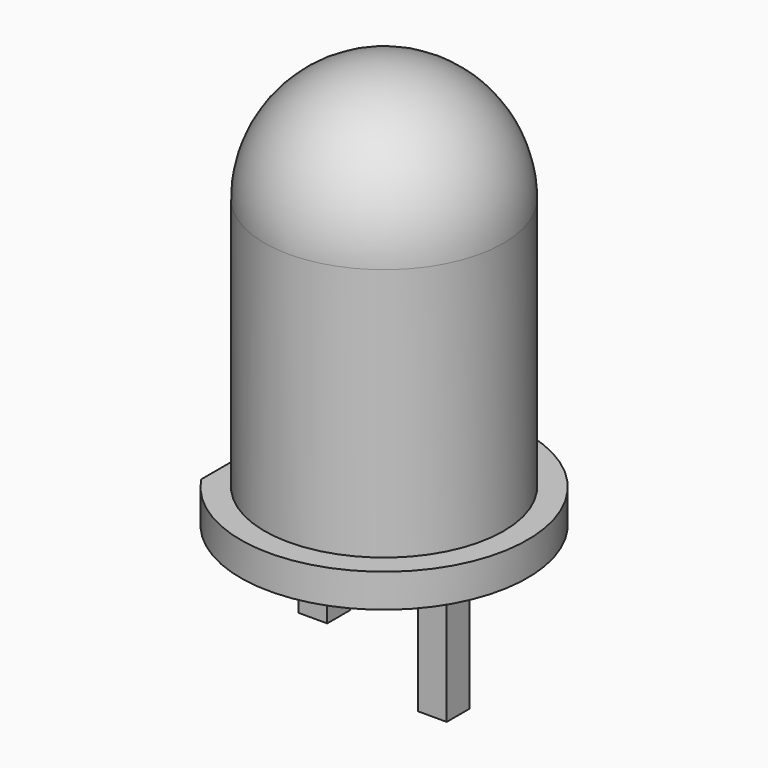
from build123d import *

# Parameters (mm, degrees)
F0_R      = 2.5
F1_DEPTH  = 6
F5_DEPTH  = 0.7
F6_W      = 0.6
F6_H      = 0.6
F7_DEPTH  = 2
F7_FACE_W = 0.6
F7_FACE_H = 0.6
F8_DEPTH  = 1


with BuildPart() as f1:
    # F0 (on Top) → F1 (new body)
    with BuildSketch(Plane.XY):
        Circle(F0_R)
    extrude(amount=F1_DEPTH)

    # F2 (on face) → F3 (revolve)
    with BuildSketch(Plane.XY.offset(6)):
        with BuildLine():
            ThreePointArc((0, 2.5), (-2.5, 0), (0, -2.5))
            Line((0, -2.5), (0, 2.5))
        make_face()
    revolve(axis=Axis((0, 0, 6), (0, 1, 0)))

    # F4 (on face) → F5 (join)
    with BuildSketch(Plane(origin=(0, 0, 0), x_dir=(1, 0, 0), z_dir=(0, 0, -1))):
        with BuildLine():
            Line((-2.5, 1.658312), (-2.5, -1.658312))
            ThreePointArc((-2.5, -1.658312), (3, 0), (-2.5, 1.658312))
        make_face()
    extrude(amount=-F5_DEPTH)

    # F6 (on face) → F7 (join)
    with BuildSketch(Plane(origin=(0, 0, 0), x_dir=(1, 0, 0), z_dir=(0, 0, -1))):
        with Locations((1.25, 0)):
            Rectangle(F6_W, F6_H)
        with Locations((-1.25, 0)):
            Rectangle(F6_W, F6_H)
    extrude(amount=F7_DEPTH)

    # F7_face (on face) → F8 (join)
    with BuildSketch(Plane(origin=(1.25, 0, -2), x_dir=(1, 0, 0), z_dir=(0, 0, -1))):
        Rectangle(F7_FACE_W, F7_FACE_H)
    extrude(amount=F8_DEPTH)


solid = f1.part
